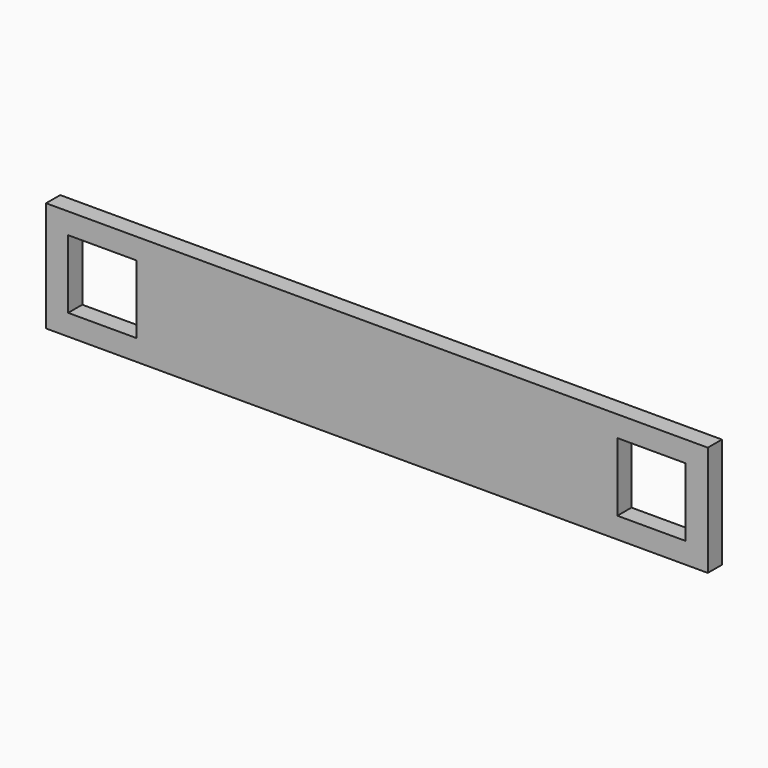
from build123d import *

# Parameters (mm, degrees)
F0_W     = 15.5
F0_H     = 15.5
F1_DEPTH = 4


with BuildPart() as f1:
    # F0 (on Front) → F1 (new body)
    with BuildSketch(Plane.XZ):
        Polygon((12.75, -12.5), (12.75, 0), (12.75, 12.5), (-137.25, 12.5), (-137.25, -12.5), align=None)
        with Locations((-124.5, 0)):
            Rectangle(F0_W, F0_H, mode=Mode.SUBTRACT)
        Polygon((-7.75, 7.75), (7.75, 7.75), (7.75, 0), (7.75, -7.75), (-7.75, -7.75), align=None, mode=Mode.SUBTRACT)
    extrude(amount=F1_DEPTH)


solid = f1.part
